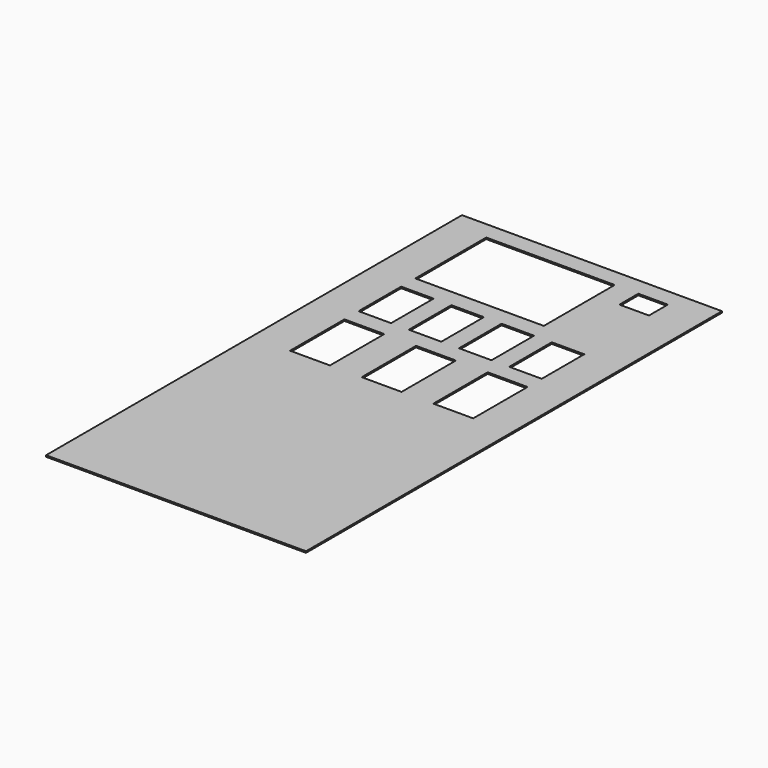
from build123d import *

# Parameters (mm, degrees)
F0_W     = 558.8
F0_H     = 1117.6
F0_W_2   = 85.725
F0_H_2   = 146.05
F0_W_3   = 69.85
F0_H_3   = 114.3
F0_W_4   = 276.225
F0_H_4   = 190.5
F0_W_5   = 63.5
F0_H_5   = 50.8
F1_DEPTH = 3.175


with BuildPart() as f1:
    # F0 (on Top) → F1 (new body)
    with BuildSketch(Plane.XY):
        with Locations((-207.761982, 174.063147)):
            Rectangle(F0_W, F0_H)
        with Locations((-361.749482, 240.738147)):
            Rectangle(F0_W_2, F0_H_2, mode=Mode.SUBTRACT)
        with Locations((-369.686982, 409.013147)):
            Rectangle(F0_W_3, F0_H_3, mode=Mode.SUBTRACT)
        with Locations((-207.761982, 240.738147)):
            Rectangle(F0_W_2, F0_H_2, mode=Mode.SUBTRACT)
        with Locations((-261.736982, 409.013147)):
            Rectangle(F0_W_3, F0_H_3, mode=Mode.SUBTRACT)
        with Locations((-266.499482, 599.513147)):
            Rectangle(F0_W_4, F0_H_4, mode=Mode.SUBTRACT)
        with Locations((-153.786982, 409.013147)):
            Rectangle(F0_W_3, F0_H_3, mode=Mode.SUBTRACT)
        with Locations((-53.774482, 240.738147)):
            Rectangle(F0_W_2, F0_H_2, mode=Mode.SUBTRACT)
        with Locations((-45.836982, 409.013147)):
            Rectangle(F0_W_3, F0_H_3, mode=Mode.SUBTRACT)
        with Locations((-45.836982, 669.363147)):
            Rectangle(F0_W_5, F0_H_5, mode=Mode.SUBTRACT)
    extrude(amount=F1_DEPTH)


solid = f1.part
